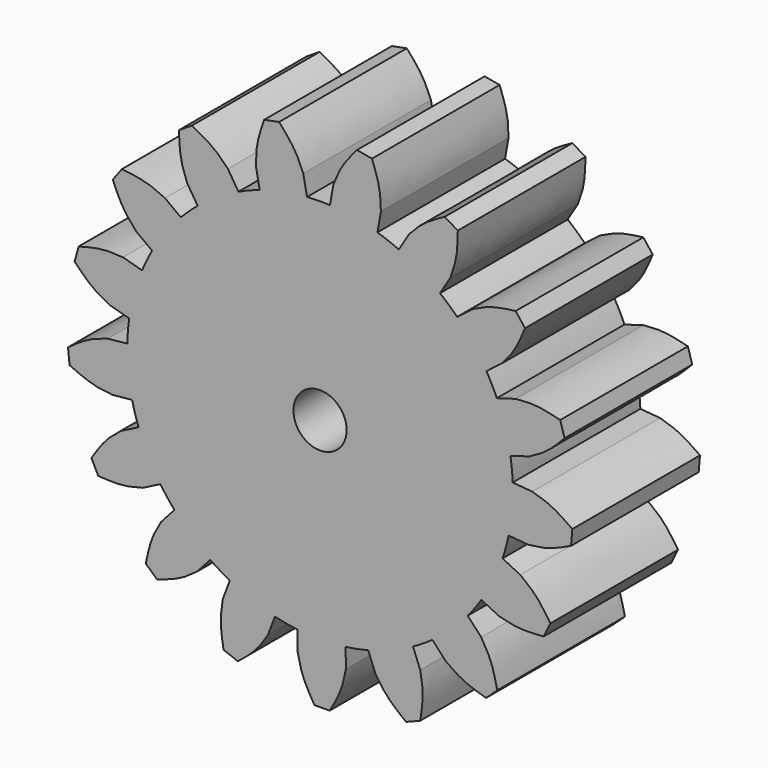
from build123d import *

# Parameters (mm, degrees)
F1_DEPTH = 15
F2_DEPTH = 15
F4_COUNT = 17
F5_R     = 2.5
F6_DEPTH = 15.0010001


with BuildPart() as f1:
    # F0 (on Front) → F1 (new body)
    with BuildSketch(Plane.XZ):
        with BuildLine():
            ThreePointArc((-5.6695174747, 17.21546388), (-3.4727888685, 17.7891922941), (-1.2215682861, 18.0837882072))
            Line((-1.2215682861, 18.0837882072), (-1.5773132627, 19.9060745702))
            add(Edge.make_bspline(
                [(-1.5773132627, 19.9060745702), (-1.6091760333, 19.9786930772), (-1.6954989541, 20.1754318265), (-2.000311393, 20.9500176622), (-2.652611978, 22.0700226839), (-3.4254210262, 22.9564705364), (-3.8441943251, 23.43682295)],
                knots=[0, 0, 0, 0, 0.1329681211, 0.3602384977, 0.6533231133, 1, 1, 1, 1], degree=3))
            add(Edge.make_bspline(
                [(-5.2527525556, 23.1618455782), (-4.7832331455, 23.2535047022), (-4.3137137353, 23.3451638261), (-3.8441943251, 23.43682295)],
                knots=[0, 0, 0, 0, 1.4351476731, 1.4351476731, 1.4351476731, 1.4351476731], degree=3))
            add(Edge.make_bspline(
                [(-6.0252624513, 19.037750243), (-6.0230512836, 19.1170206312), (-6.017060767, 19.3317807203), (-6.0259537489, 20.1641356653), (-5.8427858488, 21.4472400346), (-5.4601156382, 22.5592594274), (-5.2527525556, 23.1618455782)],
                knots=[0, 0, 0, 0, 0.1329681211, 0.3602384977, 0.6533231133, 1, 1, 1, 1], degree=3))
            Line((-6.0252624513, 19.037750243), (-5.6695174747, 17.21546388))
        make_face()
    extrude(amount=F1_DEPTH)

    # F0 (on Front) → F2 (join)
    with BuildSketch(Plane.XZ):
        with BuildLine():
            ThreePointArc((-5.6695174747, 17.21546388), (-10.6243969422, -14.6846114901), (18.125, 0))
            ThreePointArc((18.125, 0), (12.3768877311, 13.2411583743), (-1.2215682861, 18.0837882072))
            ThreePointArc((-1.2215682861, 18.0837882072), (-3.4727888685, 17.7891922941), (-5.6695174747, 17.21546388))
        make_face()
        with BuildLine():
            ThreePointArc((-5.6695174747, 17.21546388), (-3.4727888685, 17.7891922941), (-1.2215682861, 18.0837882072))
            Line((-1.2215682861, 18.0837882072), (-1.5773132627, 19.9060745702))
            add(Edge.make_bspline(
                [(-1.5773132627, 19.9060745702), (-1.6091760333, 19.9786930772), (-1.6954989541, 20.1754318265), (-2.000311393, 20.9500176622), (-2.652611978, 22.0700226839), (-3.4254210262, 22.9564705364), (-3.8441943251, 23.43682295)],
                knots=[0, 0, 0, 0, 0.1329681211, 0.3602384977, 0.6533231133, 1, 1, 1, 1], degree=3))
            add(Edge.make_bspline(
                [(-5.2527525556, 23.1618455782), (-4.7832331455, 23.2535047022), (-4.3137137353, 23.3451638261), (-3.8441943251, 23.43682295)],
                knots=[0, 0, 0, 0, 1.4351476731, 1.4351476731, 1.4351476731, 1.4351476731], degree=3))
            add(Edge.make_bspline(
                [(-6.0252624513, 19.037750243), (-6.0230512836, 19.1170206312), (-6.017060767, 19.3317807203), (-6.0259537489, 20.1641356653), (-5.8427858488, 21.4472400346), (-5.4601156382, 22.5592594274), (-5.2527525556, 23.1618455782)],
                knots=[0, 0, 0, 0, 0.1329681211, 0.3602384977, 0.6533231133, 1, 1, 1, 1], degree=3))
            Line((-6.0252624513, 19.037750243), (-5.6695174747, 17.21546388))
        make_face()
    extrude(amount=F2_DEPTH)

    # F4: F1 ×17 about axis
    f4_axis = Axis((0, -32.2289019823, 0), (0, 1, 0))


with BuildPart() as f1_1:
    add(f1.part)
    for i in range(1, F4_COUNT):
        add(f1.part.rotate(f4_axis, i * 360 / F4_COUNT))

    # F5 (on Front) → F6 (cut, through all)
    with BuildSketch(Plane.XZ):
        Circle(F5_R)
    extrude(amount=F6_DEPTH, mode=Mode.SUBTRACT)


solid = f1_1.part
